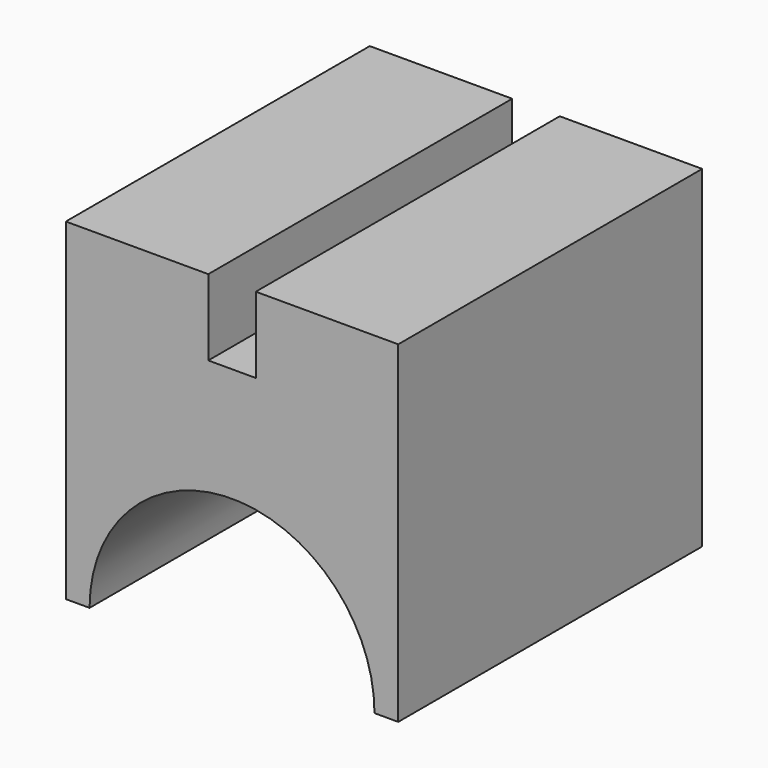
from build123d import *

# Parameters (mm, degrees)
F0_W     = 1016
F0_H     = 889
F1_DEPTH = 889
F2_W     = 127
F2_H     = 203.2
F3_DEPTH = 1016.001


with BuildPart() as f1:
    # F0 (on Right) → F1 (new body)
    with BuildSketch(Plane.YZ):
        with Locations((508, 444.5)):
            Rectangle(F0_W, F0_H)
    extrude(amount=F1_DEPTH)

    # F2 (on face) → F3 (cut, through all)
    with BuildSketch(Plane.XZ):
        with BuildLine():
            ThreePointArc((825.5, 0), (444.5, 381), (63.5, 0))
            Line((63.5, 0), (825.5, 0))
        make_face()
        with Locations((444.5, 787.4)):
            Rectangle(F2_W, F2_H)
    extrude(amount=-F3_DEPTH, mode=Mode.SUBTRACT)


solid = f1.part
